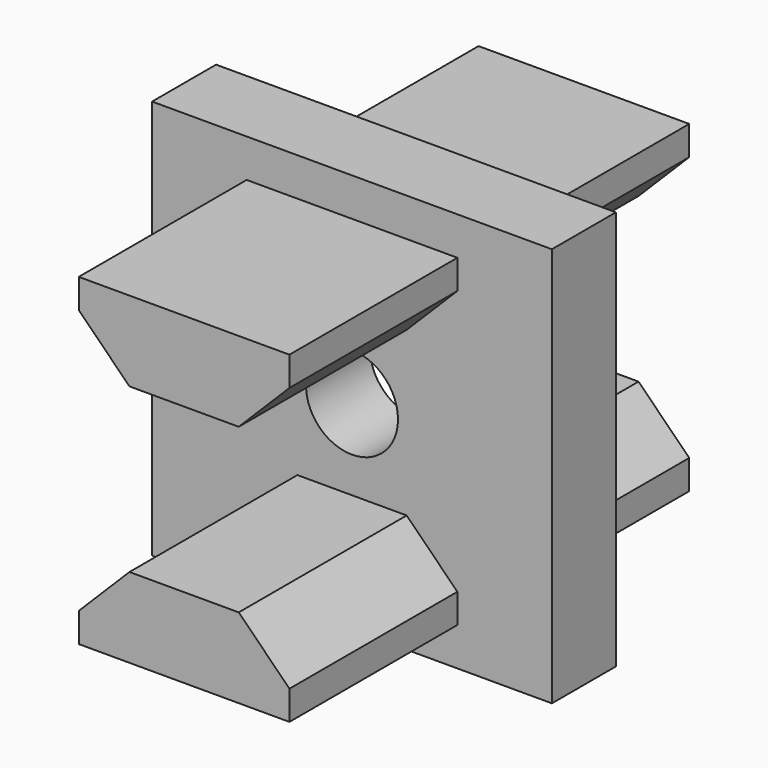
from build123d import *

# Parameters (mm, degrees)
F1_W     = 20
F1_H     = 20
F1_R     = 2.3
F2_DEPTH = 2
F3_DEPTH = 12.5
F4_COUNT = 2
F4_ANGLE = 180


with BuildPart() as f2:
    # F1 (on Front) → F2 (new body, symmetric)
    with BuildSketch(Plane.XZ):
        with Locations((0, -16.462347)):
            Rectangle(F1_W, F1_H)
        with Locations((0, -16.462347)):
            Circle(F1_R, mode=Mode.SUBTRACT)
    extrude(amount=F2_DEPTH, both=True)


with BuildPart() as f3:
    # F0 (on Front) → F3 (new body, symmetric)
    with BuildSketch(Plane.XZ):
        Polygon((5.27, -9.839541), (5.27, -8.375684), (-5.27, -8.375684), (-5.27, -9.839541), (-2.733737, -12.375804), (2.733737, -12.375804), align=None)
    extrude(amount=F3_DEPTH, both=True)


with BuildPart() as f4_1:
    # F4: instance of F3
    add(f3.part.rotate(Axis((0, 0, -16.462347), (0, 1, 0)), 1 * F4_ANGLE / (F4_COUNT - 1)))


solid = Compound([f2.part, f3.part, f4_1.part])
